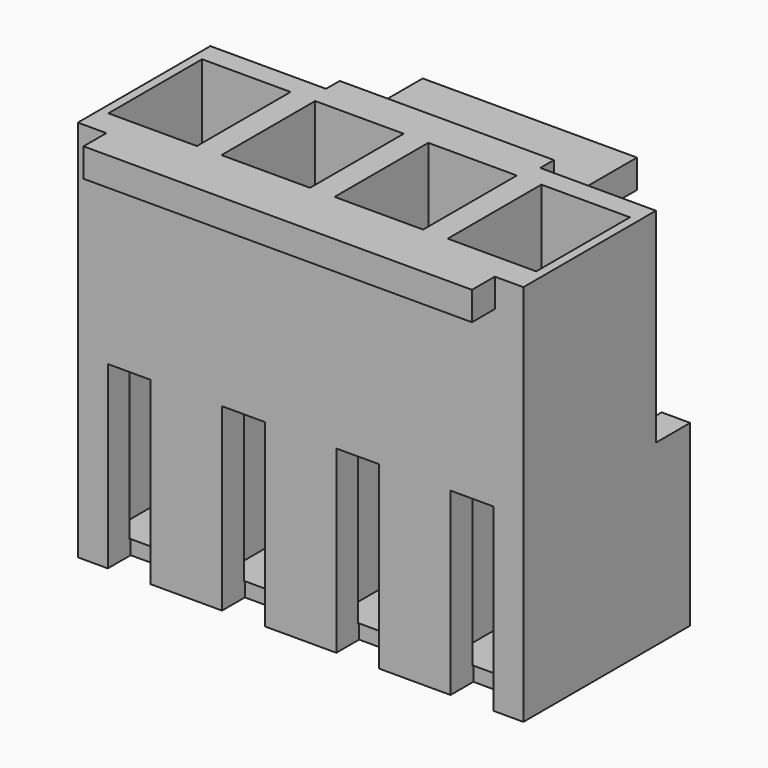
from build123d import *

# Parameters (mm, degrees)
F0_W           = 15.6
F0_H           = 5.8
F1_DEPTH       = 13.4
F2_W           = 1.5
F2_H           = 6.25
F3_DEPTH       = 1
F4_W           = 1.5
F4_H           = 6.25
F5_DEPTH       = 1
F6_W           = 13.6
F6_H           = 1
F7_DEPTH       = 1
F8_W           = 1.5
F8_H           = 6.3
F9_DEPTH       = 1
F10_W          = 1.3
F10_H          = 1.3
F11_DEPTH      = 13.401
F12_W          = 3.1
F12_H          = 4.1
F12_W_2        = 1.3
F12_H_2        = 1.3
F13_DEPTH      = 12.9
F15_DEPTH      = 3.75
F15_DEPTH_BACK = 3.75
F16_W          = 2.5
F16_H          = 8.7
F17_DEPTH      = 0.5


with BuildPart() as f1:
    # F0 (on Top) → F1 (new body)
    with BuildSketch(Plane.XY):
        Rectangle(F0_W, F0_H)
    extrude(amount=F1_DEPTH)

    # F2 (on face) → F3 (join)
    with BuildSketch(Plane.YZ.offset(7.8)):
        with Locations((3.65, 3.125)):
            Rectangle(F2_W, F2_H)
    extrude(amount=-F3_DEPTH)

    # F4 (on face) → F5 (join)
    with BuildSketch(Plane(origin=(-7.8, 0, 0), x_dir=(0, -1, 0), z_dir=(-1, 0, 0))):
        with Locations((-3.65, 3.125)):
            Rectangle(F4_W, F4_H)
    extrude(amount=-F5_DEPTH)

    # F6 (on face) → F7 (join)
    with BuildSketch(Plane.XZ.offset(2.9)):
        with Locations((0, 12.9)):
            Rectangle(F6_W, F6_H)
    extrude(amount=F7_DEPTH)

    # F8 (on face) → F9 (cut)
    with BuildSketch(Plane.XZ.offset(2.9)):
        with Locations((-6, 3.15)):
            Rectangle(F8_W, F8_H)
        with Locations((-2, 3.15)):
            Rectangle(F8_W, F8_H)
        with Locations((2, 3.15)):
            Rectangle(F8_W, F8_H)
        with Locations((6, 3.15)):
            Rectangle(F8_W, F8_H)
    extrude(amount=-F9_DEPTH, mode=Mode.SUBTRACT)

    # F10 (on Top) → F11 (cut, through all)
    with BuildSketch(Plane.XY):
        with Locations((5.94, 0.95)):
            Rectangle(F10_W, F10_H)
        with Locations((1.98, 0.95)):
            Rectangle(F10_W, F10_H)
        with Locations((-1.98, 0.95)):
            Rectangle(F10_W, F10_H)
        with Locations((-5.94, 0.95)):
            Rectangle(F10_W, F10_H)
    extrude(amount=F11_DEPTH, mode=Mode.SUBTRACT)

    # F12 (on face) → F13 (cut)
    with BuildSketch(Plane.XY.offset(13.4)):
        with Locations((-5.94, 0.1)):
            Rectangle(F12_W, F12_H)
        with Locations((-5.94, 0.95)):
            Rectangle(F12_W_2, F12_H_2, mode=Mode.SUBTRACT)
        with Locations((-1.98, 0.1)):
            Rectangle(F12_W, F12_H)
        with Locations((-1.98, 0.95)):
            Rectangle(F12_W_2, F12_H_2, mode=Mode.SUBTRACT)
        with Locations((1.98, 0.1)):
            Rectangle(F12_W, F12_H)
        with Locations((1.98, 0.95)):
            Rectangle(F12_W_2, F12_H_2, mode=Mode.SUBTRACT)
        with Locations((5.94, 0.1)):
            Rectangle(F12_W, F12_H)
        with Locations((5.94, 0.95)):
            Rectangle(F12_W_2, F12_H_2, mode=Mode.SUBTRACT)
    extrude(amount=-F13_DEPTH, mode=Mode.SUBTRACT)

    # F14 (on Right) → F15 (join, two sides)
    with BuildSketch(Plane.YZ) as f15_sk:
        with BuildLine():
            Line((3.5, 13.4), (2.9, 13.4))
            Line((2.9, 13.4), (2.9, 5.7))
            Line((2.9, 5.7), (3.5, 5.7))
            Line((3.5, 5.7), (3.5, 5.91))
            ThreePointArc((3.5, 5.91), (3.672807, 6.327193), (4.09, 6.5))
            Line((4.09, 6.5), (4.11, 6.5))
            ThreePointArc((4.11, 6.5), (4.527193, 6.327193), (4.7, 5.91))
            Line((4.7, 5.91), (4.7, 2.3))
            Line((4.7, 2.3), (6.1, 2.3))
            Line((6.1, 2.3), (6.1, 11))
            Line((6.1, 11), (7.132015, 11))
            Line((7.132015, 11), (7.132015, 12))
            Line((7.132015, 12), (4.7, 12))
            Line((4.7, 12), (4.7, 8.09))
            ThreePointArc((4.7, 8.09), (4.527193, 7.672807), (4.11, 7.5))
            Line((4.11, 7.5), (4.09, 7.5))
            ThreePointArc((4.09, 7.5), (3.672807, 7.672807), (3.5, 8.09))
            Line((3.5, 8.09), (3.5, 13.4))
        make_face()
    extrude(amount=F15_DEPTH)
    extrude(f15_sk.sketch, amount=-F15_DEPTH_BACK)

    # F16 (on face) → F17 (cut)
    with BuildSketch(Plane(origin=(0, 6.1, 0), x_dir=(-1, 0, 0), z_dir=(0, 1, 0))):
        with Locations((-2.5, 6.65)):
            Rectangle(F16_W, F16_H)
        with Locations((2.5, 6.65)):
            Rectangle(F16_W, F16_H)
    extrude(amount=-F17_DEPTH, mode=Mode.SUBTRACT)


solid = f1.part
